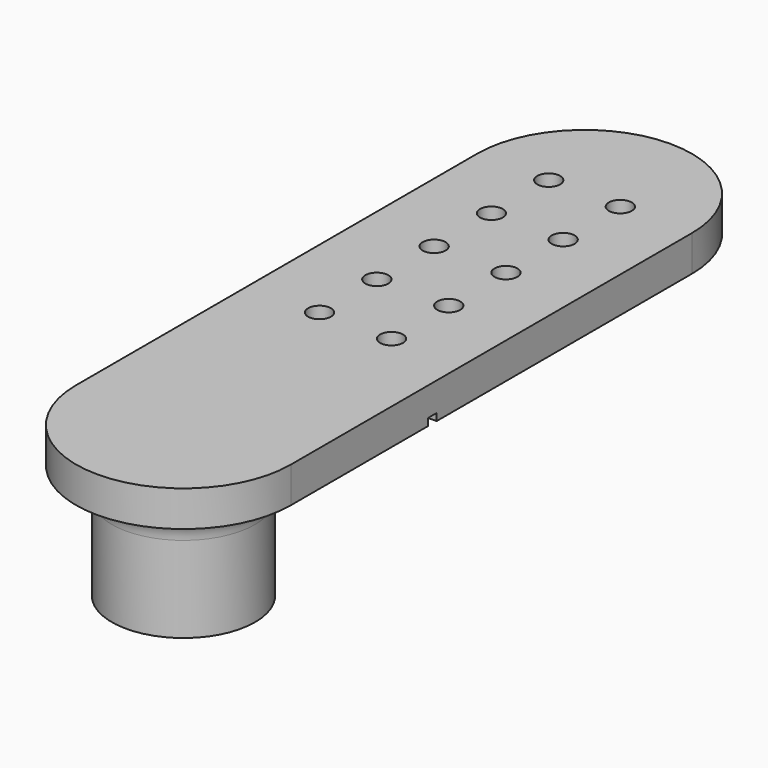
from build123d import *

# Parameters (mm, degrees)
SKETCH_R        = 10
PAD_DEPTH       = 16
POCKET_DEPTH    = 16
SKETCH002_R     = 1.6
PAD001_DEPTH    = 5
SKETCH004_W     = 30
SKETCH004_H     = 1.5
POCKET001_DEPTH = 1
FILLET_R        = 4


with BuildPart() as part:
    # Sketch → Pad (new body)
    with BuildSketch(Plane.XY):
        Circle(SKETCH_R)
    extrude(amount=PAD_DEPTH)

    # InvoluteGear → Pocket (cut)
    with BuildSketch(Plane.XY):
        with BuildLine():
            add(Edge.make_bspline(
                [(3.273988, -0.413426), (3.078807, -0.255384), (2.914417, -0.191329), (2.824736, -0.180769), (2.814315, -0.179349)],
                knots=[0, 0, 0, 0, 0, 1, 1, 1, 1, 1], degree=4))
            ThreePointArc((2.814315, -0.179349), (2.808594, -1e-06), (2.814291, 0.179347))
            add(Edge.make_bspline(
                [(2.814291, 0.179347), (2.824736, 0.180769), (2.914417, 0.191329), (3.078807, 0.255384), (3.273988, 0.413426)],
                knots=[0, 0, 0, 0, 0, 1, 1, 1, 1, 1], degree=4))
            ThreePointArc((3.273988, 0.413426), (3.326082, 0.5268), (3.241504, 0.618526))
            add(Edge.make_bspline(
                [(3.241504, 0.618526), (3.007037, 0.708519), (2.830899, 0.71864), (2.742344, 0.70097), (2.731994, 0.6991)],
                knots=[0, 0, 0, 0, 0, 1, 1, 1, 1, 1], degree=4))
            ThreePointArc((2.731994, 0.6991), (2.671132, 0.867902), (2.621129, 1.040232))
            add(Edge.make_bspline(
                [(2.621129, 1.040232), (2.630623, 1.044813), (2.712652, 1.082569), (2.849201, 1.194288), (2.985992, 1.40491)],
                knots=[0, 0, 0, 0, 0, 1, 1, 1, 1, 1], degree=4))
            ThreePointArc((2.985992, 1.40491), (3.000502, 1.528832), (2.891718, 1.589933))
            add(Edge.make_bspline(
                [(2.891718, 1.589933), (2.640918, 1.603067), (2.470273, 1.558263), (2.391512, 1.514093), (2.382247, 1.509117)],
                knots=[0, 0, 0, 0, 0, 1, 1, 1, 1, 1], degree=4))
            ThreePointArc((2.382247, 1.509117), (2.272201, 1.650849), (2.171392, 1.799293))
            add(Edge.make_bspline(
                [(2.171392, 1.799293), (2.179006, 1.806583), (2.245353, 1.867839), (2.340696, 2.016287), (2.405706, 2.258871)],
                knots=[0, 0, 0, 0, 0, 1, 1, 1, 1, 1], degree=4))
            ThreePointArc((2.405706, 2.258871), (2.381212, 2.381212), (2.258871, 2.405706))
            add(Edge.make_bspline(
                [(2.258871, 2.405706), (2.016287, 2.340696), (1.867839, 2.245353), (1.806583, 2.179006), (1.799309, 2.17141)],
                knots=[0, 0, 0, 0, 0, 1, 1, 1, 1, 1], degree=4))
            ThreePointArc((1.799309, 2.17141), (1.650851, 2.272199), (1.509104, 2.382227))
            add(Edge.make_bspline(
                [(1.509104, 2.382227), (1.514093, 2.391512), (1.558263, 2.470273), (1.603067, 2.640918), (1.589933, 2.891718)],
                knots=[0, 0, 0, 0, 0, 1, 1, 1, 1, 1], degree=4))
            ThreePointArc((1.589933, 2.891718), (1.528832, 3.000502), (1.40491, 2.985992))
            add(Edge.make_bspline(
                [(1.40491, 2.985992), (1.194288, 2.849201), (1.082569, 2.712652), (1.044813, 2.630623), (1.040242, 2.621151)],
                knots=[0, 0, 0, 0, 0, 1, 1, 1, 1, 1], degree=4))
            ThreePointArc((1.040242, 2.621151), (0.867905, 2.671131), (0.699095, 2.731971))
            add(Edge.make_bspline(
                [(0.699095, 2.731971), (0.70097, 2.742344), (0.71864, 2.830899), (0.708519, 3.007037), (0.618526, 3.241504)],
                knots=[0, 0, 0, 0, 0, 1, 1, 1, 1, 1], degree=4))
            ThreePointArc((0.618526, 3.241504), (0.5268, 3.326082), (0.413426, 3.273988))
            add(Edge.make_bspline(
                [(0.413426, 3.273988), (0.255384, 3.078807), (0.191329, 2.914417), (0.180769, 2.824736), (0.179349, 2.814315)],
                knots=[0, 0, 0, 0, 0, 1, 1, 1, 1, 1], degree=4))
            ThreePointArc((0.179349, 2.814315), (1e-06, 2.808594), (-0.179347, 2.814291))
            add(Edge.make_bspline(
                [(-0.179347, 2.814291), (-0.180769, 2.824736), (-0.191329, 2.914417), (-0.255384, 3.078807), (-0.413426, 3.273988)],
                knots=[0, 0, 0, 0, 0, 1, 1, 1, 1, 1], degree=4))
            ThreePointArc((-0.413426, 3.273988), (-0.5268, 3.326082), (-0.618526, 3.241504))
            add(Edge.make_bspline(
                [(-0.618526, 3.241504), (-0.708519, 3.007037), (-0.71864, 2.830899), (-0.70097, 2.742344), (-0.6991, 2.731994)],
                knots=[0, 0, 0, 0, 0, 1, 1, 1, 1, 1], degree=4))
            ThreePointArc((-0.6991, 2.731994), (-0.867902, 2.671132), (-1.040232, 2.621129))
            add(Edge.make_bspline(
                [(-1.040232, 2.621129), (-1.044813, 2.630623), (-1.082569, 2.712652), (-1.194288, 2.849201), (-1.40491, 2.985992)],
                knots=[0, 0, 0, 0, 0, 1, 1, 1, 1, 1], degree=4))
            ThreePointArc((-1.40491, 2.985992), (-1.528832, 3.000502), (-1.589933, 2.891718))
            add(Edge.make_bspline(
                [(-1.589933, 2.891718), (-1.603067, 2.640918), (-1.558263, 2.470273), (-1.514093, 2.391512), (-1.509117, 2.382247)],
                knots=[0, 0, 0, 0, 0, 1, 1, 1, 1, 1], degree=4))
            ThreePointArc((-1.509117, 2.382247), (-1.650849, 2.272201), (-1.799293, 2.171392))
            add(Edge.make_bspline(
                [(-1.799293, 2.171392), (-1.806583, 2.179006), (-1.867839, 2.245353), (-2.016287, 2.340696), (-2.258871, 2.405706)],
                knots=[0, 0, 0, 0, 0, 1, 1, 1, 1, 1], degree=4))
            ThreePointArc((-2.258871, 2.405706), (-2.381212, 2.381212), (-2.405706, 2.258871))
            add(Edge.make_bspline(
                [(-2.405706, 2.258871), (-2.340696, 2.016287), (-2.245353, 1.867839), (-2.179006, 1.806583), (-2.17141, 1.799309)],
                knots=[0, 0, 0, 0, 0, 1, 1, 1, 1, 1], degree=4))
            ThreePointArc((-2.17141, 1.799309), (-2.272199, 1.650851), (-2.382227, 1.509104))
            add(Edge.make_bspline(
                [(-2.382227, 1.509104), (-2.391512, 1.514093), (-2.470273, 1.558263), (-2.640918, 1.603067), (-2.891718, 1.589933)],
                knots=[0, 0, 0, 0, 0, 1, 1, 1, 1, 1], degree=4))
            ThreePointArc((-2.891718, 1.589933), (-3.000502, 1.528832), (-2.985992, 1.40491))
            add(Edge.make_bspline(
                [(-2.985992, 1.40491), (-2.849201, 1.194288), (-2.712652, 1.082569), (-2.630623, 1.044813), (-2.621151, 1.040242)],
                knots=[0, 0, 0, 0, 0, 1, 1, 1, 1, 1], degree=4))
            ThreePointArc((-2.621151, 1.040242), (-2.671131, 0.867905), (-2.731971, 0.699095))
            add(Edge.make_bspline(
                [(-2.731971, 0.699095), (-2.742344, 0.70097), (-2.830899, 0.71864), (-3.007037, 0.708519), (-3.241504, 0.618526)],
                knots=[0, 0, 0, 0, 0, 1, 1, 1, 1, 1], degree=4))
            ThreePointArc((-3.241504, 0.618526), (-3.326082, 0.5268), (-3.273988, 0.413426))
            add(Edge.make_bspline(
                [(-3.273988, 0.413426), (-3.078807, 0.255384), (-2.914417, 0.191329), (-2.824736, 0.180769), (-2.814315, 0.179349)],
                knots=[0, 0, 0, 0, 0, 1, 1, 1, 1, 1], degree=4))
            ThreePointArc((-2.814315, 0.179349), (-2.808594, 1e-06), (-2.814291, -0.179347))
            add(Edge.make_bspline(
                [(-2.814291, -0.179347), (-2.824736, -0.180769), (-2.914417, -0.191329), (-3.078807, -0.255384), (-3.273988, -0.413426)],
                knots=[0, 0, 0, 0, 0, 1, 1, 1, 1, 1], degree=4))
            ThreePointArc((-3.273988, -0.413426), (-3.326082, -0.5268), (-3.241504, -0.618526))
            add(Edge.make_bspline(
                [(-3.241504, -0.618526), (-3.007037, -0.708519), (-2.830899, -0.71864), (-2.742344, -0.70097), (-2.731994, -0.6991)],
                knots=[0, 0, 0, 0, 0, 1, 1, 1, 1, 1], degree=4))
            ThreePointArc((-2.731994, -0.6991), (-2.671132, -0.867902), (-2.621129, -1.040232))
            add(Edge.make_bspline(
                [(-2.621129, -1.040232), (-2.630623, -1.044813), (-2.712652, -1.082569), (-2.849201, -1.194288), (-2.985992, -1.40491)],
                knots=[0, 0, 0, 0, 0, 1, 1, 1, 1, 1], degree=4))
            ThreePointArc((-2.985992, -1.40491), (-3.000502, -1.528832), (-2.891718, -1.589933))
            add(Edge.make_bspline(
                [(-2.891718, -1.589933), (-2.640918, -1.603067), (-2.470273, -1.558263), (-2.391512, -1.514093), (-2.382247, -1.509117)],
                knots=[0, 0, 0, 0, 0, 1, 1, 1, 1, 1], degree=4))
            ThreePointArc((-2.382247, -1.509117), (-2.272201, -1.650849), (-2.171392, -1.799293))
            add(Edge.make_bspline(
                [(-2.171392, -1.799293), (-2.179006, -1.806583), (-2.245353, -1.867839), (-2.340696, -2.016287), (-2.405706, -2.258871)],
                knots=[0, 0, 0, 0, 0, 1, 1, 1, 1, 1], degree=4))
            ThreePointArc((-2.405706, -2.258871), (-2.381212, -2.381212), (-2.258871, -2.405706))
            add(Edge.make_bspline(
                [(-2.258871, -2.405706), (-2.016287, -2.340696), (-1.867839, -2.245353), (-1.806583, -2.179006), (-1.799309, -2.17141)],
                knots=[0, 0, 0, 0, 0, 1, 1, 1, 1, 1], degree=4))
            ThreePointArc((-1.799309, -2.17141), (-1.650851, -2.272199), (-1.509104, -2.382227))
            add(Edge.make_bspline(
                [(-1.509104, -2.382227), (-1.514093, -2.391512), (-1.558263, -2.470273), (-1.603067, -2.640918), (-1.589933, -2.891718)],
                knots=[0, 0, 0, 0, 0, 1, 1, 1, 1, 1], degree=4))
            ThreePointArc((-1.589933, -2.891718), (-1.528832, -3.000502), (-1.40491, -2.985992))
            add(Edge.make_bspline(
                [(-1.40491, -2.985992), (-1.194288, -2.849201), (-1.082569, -2.712652), (-1.044813, -2.630623), (-1.040242, -2.621151)],
                knots=[0, 0, 0, 0, 0, 1, 1, 1, 1, 1], degree=4))
            ThreePointArc((-1.040242, -2.621151), (-0.867905, -2.671131), (-0.699095, -2.731971))
            add(Edge.make_bspline(
                [(-0.699095, -2.731971), (-0.70097, -2.742344), (-0.71864, -2.830899), (-0.708519, -3.007037), (-0.618526, -3.241504)],
                knots=[0, 0, 0, 0, 0, 1, 1, 1, 1, 1], degree=4))
            ThreePointArc((-0.618526, -3.241504), (-0.5268, -3.326082), (-0.413426, -3.273988))
            add(Edge.make_bspline(
                [(-0.413426, -3.273988), (-0.255384, -3.078807), (-0.191329, -2.914417), (-0.180769, -2.824736), (-0.179349, -2.814315)],
                knots=[0, 0, 0, 0, 0, 1, 1, 1, 1, 1], degree=4))
            ThreePointArc((-0.179349, -2.814315), (-1e-06, -2.808594), (0.179347, -2.814291))
            add(Edge.make_bspline(
                [(0.179347, -2.814291), (0.180769, -2.824736), (0.191329, -2.914417), (0.255384, -3.078807), (0.413426, -3.273988)],
                knots=[0, 0, 0, 0, 0, 1, 1, 1, 1, 1], degree=4))
            ThreePointArc((0.413426, -3.273988), (0.5268, -3.326082), (0.618526, -3.241504))
            add(Edge.make_bspline(
                [(0.618526, -3.241504), (0.708519, -3.007037), (0.71864, -2.830899), (0.70097, -2.742344), (0.6991, -2.731994)],
                knots=[0, 0, 0, 0, 0, 1, 1, 1, 1, 1], degree=4))
            ThreePointArc((0.6991, -2.731994), (0.867902, -2.671132), (1.040232, -2.621129))
            add(Edge.make_bspline(
                [(1.040232, -2.621129), (1.044813, -2.630623), (1.082569, -2.712652), (1.194288, -2.849201), (1.40491, -2.985992)],
                knots=[0, 0, 0, 0, 0, 1, 1, 1, 1, 1], degree=4))
            ThreePointArc((1.40491, -2.985992), (1.528832, -3.000502), (1.589933, -2.891718))
            add(Edge.make_bspline(
                [(1.589933, -2.891718), (1.603067, -2.640918), (1.558263, -2.470273), (1.514093, -2.391512), (1.509117, -2.382247)],
                knots=[0, 0, 0, 0, 0, 1, 1, 1, 1, 1], degree=4))
            ThreePointArc((1.509117, -2.382247), (1.650849, -2.272201), (1.799293, -2.171392))
            add(Edge.make_bspline(
                [(1.799293, -2.171392), (1.806583, -2.179006), (1.867839, -2.245353), (2.016287, -2.340696), (2.258871, -2.405706)],
                knots=[0, 0, 0, 0, 0, 1, 1, 1, 1, 1], degree=4))
            ThreePointArc((2.258871, -2.405706), (2.381212, -2.381212), (2.405706, -2.258871))
            add(Edge.make_bspline(
                [(2.405706, -2.258871), (2.340696, -2.016287), (2.245353, -1.867839), (2.179006, -1.806583), (2.17141, -1.799309)],
                knots=[0, 0, 0, 0, 0, 1, 1, 1, 1, 1], degree=4))
            ThreePointArc((2.17141, -1.799309), (2.272199, -1.650851), (2.382227, -1.509104))
            add(Edge.make_bspline(
                [(2.382227, -1.509104), (2.391512, -1.514093), (2.470273, -1.558263), (2.640918, -1.603067), (2.891718, -1.589933)],
                knots=[0, 0, 0, 0, 0, 1, 1, 1, 1, 1], degree=4))
            ThreePointArc((2.891718, -1.589933), (3.000502, -1.528832), (2.985992, -1.40491))
            add(Edge.make_bspline(
                [(2.985992, -1.40491), (2.849201, -1.194288), (2.712652, -1.082569), (2.630623, -1.044813), (2.621151, -1.040242)],
                knots=[0, 0, 0, 0, 0, 1, 1, 1, 1, 1], degree=4))
            ThreePointArc((2.621151, -1.040242), (2.671131, -0.867905), (2.731971, -0.699095))
            add(Edge.make_bspline(
                [(2.731971, -0.699095), (2.742344, -0.70097), (2.830899, -0.71864), (3.007037, -0.708519), (3.241504, -0.618526)],
                knots=[0, 0, 0, 0, 0, 1, 1, 1, 1, 1], degree=4))
            ThreePointArc((3.241504, -0.618526), (3.326082, -0.5268), (3.273988, -0.413426))
        make_face()
    extrude(amount=POCKET_DEPTH, mode=Mode.SUBTRACT)

    # Sketch002 (on Face3 of Pocket) → Pad001 (join)
    with BuildSketch(Plane.XY.offset(16)):
        with BuildLine():
            ThreePointArc((15, 70), (0, 85), (-15, 70))
            Line((-15, 70), (-15, 0))
            ThreePointArc((-15, 0), (0, -15), (15, 0))
            Line((15, 70), (15, 0))
        make_face()
        with Locations((-5, 70)):
            Circle(SKETCH002_R, mode=Mode.SUBTRACT)
        with Locations((5, 70)):
            Circle(SKETCH002_R, mode=Mode.SUBTRACT)
        with Locations((-5, 60)):
            Circle(SKETCH002_R, mode=Mode.SUBTRACT)
        with Locations((5, 60.017197)):
            Circle(SKETCH002_R, mode=Mode.SUBTRACT)
        with Locations((-5, 50)):
            Circle(SKETCH002_R, mode=Mode.SUBTRACT)
        with Locations((5, 50.034394)):
            Circle(SKETCH002_R, mode=Mode.SUBTRACT)
        with Locations((-5, 40)):
            Circle(SKETCH002_R, mode=Mode.SUBTRACT)
        with Locations((5, 40.051591)):
            Circle(SKETCH002_R, mode=Mode.SUBTRACT)
        with Locations((-5, 30)):
            Circle(SKETCH002_R, mode=Mode.SUBTRACT)
        with Locations((5, 30.068788)):
            Circle(SKETCH002_R, mode=Mode.SUBTRACT)
    extrude(amount=PAD001_DEPTH)

    # Sketch004 (on Face4 of Pad001) → Pocket001 (cut)
    with BuildSketch(Plane(origin=(0, 0, 16), x_dir=(1, 0, 0), z_dir=(0, 0, -1))):
        with Locations((0, -24.689768)):
            Rectangle(SKETCH004_W, SKETCH004_H)
    extrude(amount=-POCKET001_DEPTH, mode=Mode.SUBTRACT)

    # Fillet
    fillet_edges = [part.edges().sort_by_distance(p)[0] for p in [
        (-10, 0, 16),
    ]]
    fillet(fillet_edges, radius=FILLET_R)


solid = part.part
